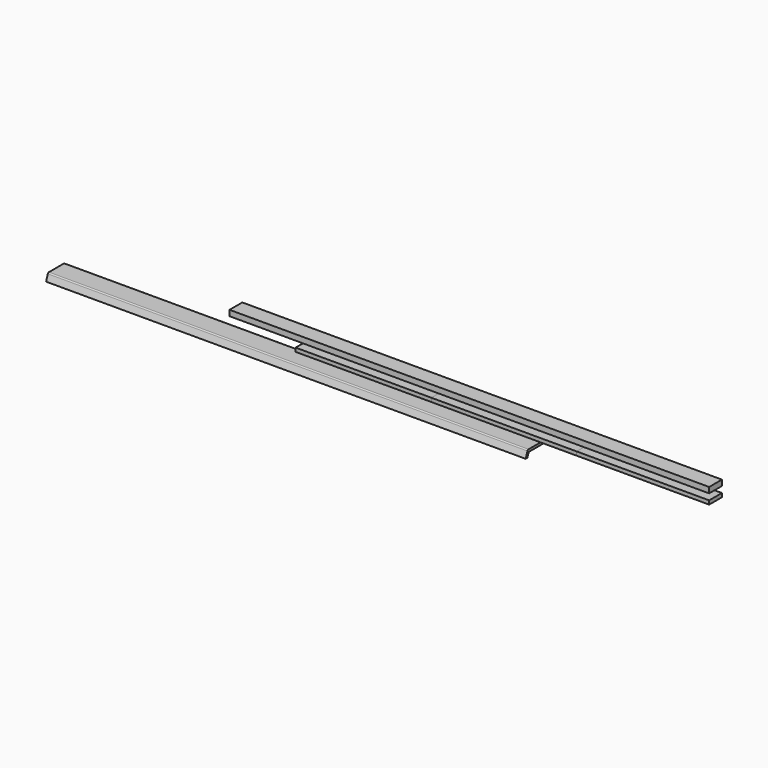
from build123d import *

# Parameters (mm, degrees)
F1_DEPTH = 254.5
F2_W     = 16.95
F2_H     = 4
F3_DEPTH = 144.089
F4_DEPTH = 154.11
F5_DEPTH = 140.673
F6_W     = 16.95
F6_H     = 6
F7_DEPTH = 509


with BuildPart() as f1:
    # F0 (on Right) → F1 (new body, symmetric)
    with BuildSketch(Plane.YZ):
        with BuildLine():
            Line((-221.9147454425, -0.4533372252), (-242.0487991016, -0.4533372252))
            ThreePointArc((-242.0487991016, -0.4533372252), (-242.9084130084, -0.7240838212), (-243.4577101963, -1.4385853169))
            Line((-243.4577101963, -1.4385853169), (-245.7940611276, -7.8333372252))
            Line((-245.7940611276, -7.8333372252), (-243.5593566017, -7.8333372252))
            Line((-243.5593566017, -7.8333372252), (-241.8122317228, -3.0513372252))
            Line((-241.8122317228, -3.0513372252), (-221.6147454425, -3.0513372252))
            Line((-221.6147454425, -3.0513372252), (-221.6147454425, -0.7533372252))
            ThreePointArc((-221.6147454425, -0.7533372252), (-221.7026134081, -0.5412051909), (-221.9147454425, -0.4533372252))
        make_face()
    extrude(amount=F1_DEPTH, both=True)


with BuildPart() as f3:
    # F2 (on Right) → F3 (new body)
    with BuildSketch(Plane.YZ):
        with Locations((-224.4229500501, 6.0959723778)):
            Rectangle(F2_W, F2_H)
    extrude(amount=F3_DEPTH)


with BuildPart() as f4:
    # F4 (new): a face of the model
    f4_faces = [f3.part.faces().sort_by_distance(p)[0] for p in [
        (144.089, -224.4229500501, 6.0959723778),
    ]]
    extrude(f4_faces, amount=F4_DEPTH)


with BuildPart() as f5:
    # F5 (new): a face of the model
    f5_faces = [f4.part.faces().sort_by_distance(p)[0] for p in [
        (298.199, -224.4229500501, 6.0959723778),
    ]]
    extrude(f5_faces, amount=F5_DEPTH)


with BuildPart() as f7:
    # F6 (on face) → F7 (new body)
    with BuildSketch(Plane.YZ.offset(438.872)):
        with Locations((-224.4229500501, 17.6090779454)):
            Rectangle(F6_W, F6_H)
    extrude(amount=-F7_DEPTH)


solid = Compound([f1.part, f3.part, f4.part, f5.part, f7.part])
